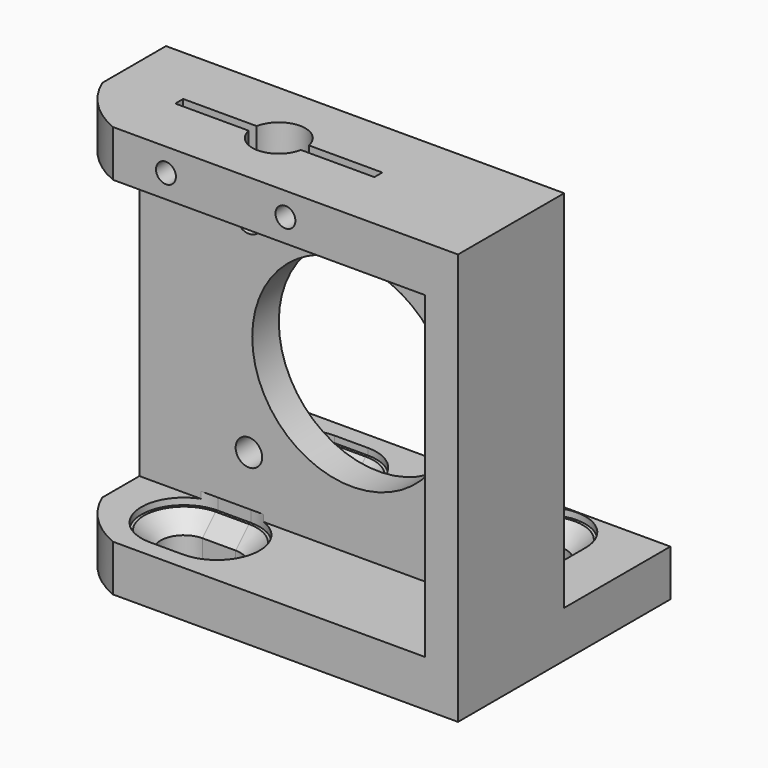
from build123d import *

# Parameters (mm, degrees)
SKETCH_W             = 60
SKETCH_H             = 40
PAD_DEPTH            = 7
SKETCH001_R          = 3.5
POCKET_DEPTH         = 0.001
POCKET_DEPTH_BACK    = 7.001
SKETCH002_W          = 60
SKETCH002_H          = 5
PAD001_DEPTH         = 55
SKETCH003_W          = 60
SKETCH003_H          = 7
PAD002_DEPTH         = 15
SKETCH004_R          = 4
POCKET001_DEPTH      = 10
SKETCH005_R          = 15
POCKET002_DEPTH      = 10
SKETCH006_R          = 2
POCKET003_DEPTH      = 20.001
POCKET004_DEPTH      = 15
POCKET005_DEPTH      = 1
CHAMFER_SIZE         = 2.49
SKETCH009_W          = 5
SKETCH009_H          = 15
PAD003_DEPTH         = 48
POCKET006_DEPTH      = 62.001
POCKET006_DEPTH_BACK = 0.001
SKETCH011_W          = 30
SKETCH011_H          = 1.5
POCKET007_DEPTH      = 10
SKETCH013_R          = 1.25
POCKET008_DEPTH      = 40.001
SKETCH014_R          = 1.5
POCKET009_DEPTH      = 9.5


with BuildPart() as part:
    # Sketch → Pad (new body)
    with BuildSketch(Plane.XY):
        with Locations((5, 0)):
            Rectangle(SKETCH_W, SKETCH_H)
    extrude(amount=PAD_DEPTH)

    # Sketch001 → Pocket (cut, two sides)
    with BuildSketch(Plane.XY) as pocket_sk:
        with Locations((-11, 11)):
            Circle(SKETCH001_R)
        with Locations((-11, -11)):
            Circle(SKETCH001_R)
        with Locations((21, 11)):
            Circle(SKETCH001_R)
    extrude(amount=-POCKET_DEPTH, mode=Mode.SUBTRACT)
    extrude(pocket_sk.sketch, amount=POCKET_DEPTH_BACK, mode=Mode.SUBTRACT)

    # Sketch002 (on Face5 of Pocket) → Pad001 (join)
    with BuildSketch(Plane.XY.offset(7)):
        with Locations((5, -2.5)):
            Rectangle(SKETCH002_W, SKETCH002_H)
    extrude(amount=PAD001_DEPTH)

    # Sketch003 (on Face14 of Pad001) → Pad002 (join)
    with BuildSketch(Plane.XZ.offset(5)):
        with Locations((5, 58.5)):
            Rectangle(SKETCH003_W, SKETCH003_H)
    extrude(amount=PAD002_DEPTH)

    # Sketch004 (on Face20 of Pad002) → Pocket001 (cut)
    with BuildSketch(Plane.XY.offset(62)):
        with Locations((0, -10)):
            Circle(SKETCH004_R)
    extrude(amount=-POCKET001_DEPTH, mode=Mode.SUBTRACT)

    # Sketch005 (on Face13 of Pocket001) → Pocket002 (cut)
    with BuildSketch(Plane(origin=(0, 0, 0), x_dir=(-1, 0, 0), z_dir=(0, 1, 0))):
        with Locations((-7, 31)):
            Circle(SKETCH005_R)
    extrude(amount=-POCKET002_DEPTH, mode=Mode.SUBTRACT)

    # Sketch006 (on Face13 of Pocket002) → Pocket003 (cut, through all)
    with BuildSketch(Plane(origin=(0, 0, 0), x_dir=(-1, 0, 0), z_dir=(0, 1, 0))):
        with Locations((-22.5, 46.5)):
            Circle(SKETCH006_R)
        with Locations((8.5, 46.5)):
            Circle(SKETCH006_R)
        with Locations((-22.5, 15.5)):
            Circle(SKETCH006_R)
        with Locations((8.5, 15.5)):
            Circle(SKETCH006_R)
    extrude(amount=-POCKET003_DEPTH, mode=Mode.SUBTRACT)

    # Sketch007 (on Face5 of Pocket003) → Pocket004 (cut)
    with BuildSketch(Plane.XY.offset(7)):
        with BuildLine():
            ThreePointArc((-13.5, 14.5), (-17, 11), (-13.5, 7.5))
            Line((-13.5, 7.5), (-8.5, 7.5))
            ThreePointArc((-8.5, 7.5), (-5, 11), (-8.5, 14.5))
            Line((-13.5, 14.5), (-8.5, 14.5))
        make_face()
        with BuildLine():
            ThreePointArc((-13.5, -7.5), (-17, -11), (-13.5, -14.5))
            Line((-13.5, -14.5), (-8.5, -14.5))
            ThreePointArc((-8.5, -14.5), (-5, -11), (-8.5, -7.5))
            Line((-13.5, -7.5), (-8.5, -7.5))
        make_face()
        with BuildLine():
            ThreePointArc((24.5, 13.5), (21, 17), (17.5, 13.5))
            Line((17.5, 13.5), (17.5, 8.5))
            ThreePointArc((17.5, 8.5), (21, 5), (24.5, 8.5))
            Line((24.5, 13.5), (24.5, 8.5))
        make_face()
    extrude(amount=-POCKET004_DEPTH, mode=Mode.SUBTRACT)

    # Sketch008 (on Face5 of Pocket004) → Pocket005 (cut, symmetric)
    with BuildSketch(Plane.XY.offset(7)):
        with BuildLine():
            ThreePointArc((27.4, 13.5), (21, 19.9), (14.6, 13.5))
            Line((14.6, 13.5), (14.6, 8.5))
            ThreePointArc((14.6, 8.5), (21, 2.1), (27.4, 8.5))
            Line((27.4, 13.5), (27.4, 8.5))
        make_face()
        with BuildLine():
            ThreePointArc((-13.5, 17.4), (-19.9, 11), (-13.5, 4.6))
            Line((-13.5, 4.6), (-8.5, 4.6))
            ThreePointArc((-8.5, 4.6), (-2.1, 11), (-8.5, 17.4))
            Line((-13.5, 17.4), (-8.5, 17.4))
        make_face()
        with BuildLine():
            ThreePointArc((-13.5, -4.6), (-19.9, -11), (-13.5, -17.4))
            Line((-13.5, -17.4), (-8.5, -17.4))
            ThreePointArc((-8.5, -17.4), (-2.1, -11), (-8.5, -4.6))
            Line((-13.5, -4.6), (-8.5, -4.6))
        make_face()
    extrude(amount=POCKET005_DEPTH, both=True, mode=Mode.SUBTRACT)

    # Chamfer
    chamfer_edges = [part.edges().sort_by_distance(p)[0] for p in [
        (-17, 11, 6),
        (21, 5, 6),
        (-17, -11, 6),
    ]]
    chamfer(chamfer_edges, length=CHAMFER_SIZE)

    # Sketch009 (on Face37 of Chamfer) → Pad003 (join)
    with BuildSketch(Plane.XY.offset(7)):
        with Locations((32.5, -12.5)):
            Rectangle(SKETCH009_W, SKETCH009_H)
    extrude(amount=PAD003_DEPTH)

    # Sketch010 (on Face76 of Pad003) → Pocket006 (cut, two sides)
    with BuildSketch(Plane.XY.offset(62)) as pocket006_sk:
        with BuildLine():
            Line((-25, -20), (-25, -12))
            ThreePointArc((-25, -12), (-21.78316, -16.78316), (-17, -20))
            Line((-25, -20), (-17, -20))
        make_face()
    extrude(amount=-POCKET006_DEPTH, mode=Mode.SUBTRACT)
    extrude(pocket006_sk.sketch, amount=POCKET006_DEPTH_BACK, mode=Mode.SUBTRACT)

    # Sketch011 (on Face78 of Pocket006) → Pocket007 (cut)
    with BuildSketch(Plane.XY.offset(62)):
        with Locations((0, -10)):
            Rectangle(SKETCH011_W, SKETCH011_H)
    extrude(amount=-POCKET007_DEPTH, mode=Mode.SUBTRACT)

    # Sketch013 (on Face66 of Pocket007) → Pocket008 (cut, through all)
    with BuildSketch(Plane.XZ.offset(20)):
        with Locations((9, 51.5)):
            Circle(SKETCH013_R)
        with Locations((-9, 51.5)):
            Circle(SKETCH013_R)
    extrude(amount=-POCKET008_DEPTH, mode=Mode.SUBTRACT)

    # Sketch014 (on Face66 of Pocket008) → Pocket009 (cut)
    with BuildSketch(Plane.XZ.offset(20)):
        with Locations((-9, 58.5)):
            Circle(SKETCH014_R)
        with Locations((9, 58.5)):
            Circle(SKETCH014_R)
    extrude(amount=-POCKET009_DEPTH, mode=Mode.SUBTRACT)


solid = part.part
